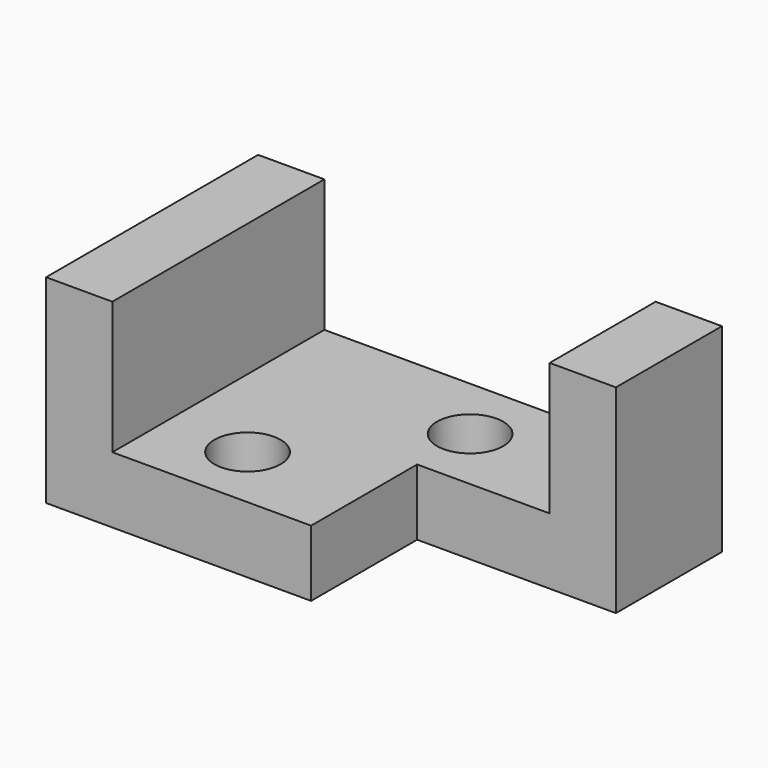
from build123d import *

# Parameters (mm, degrees)
F0_W     = 88.9
F0_H     = 38.1
F1_DEPTH = 50.8
F2_W     = 63.5
F2_H     = 25.4
F3_DEPTH = 50.801
F4_W     = 38.1
F4_H     = 25.4
F5_DEPTH = 38.101
F6_R     = 6.35
F7_DEPTH = 12.701
F8_R     = 6.35
F9_DEPTH = 12.701


with BuildPart() as f1:
    # F0 (on Front) → F1 (new body)
    with BuildSketch(Plane.XZ):
        Rectangle(F0_W, F0_H)
    extrude(amount=F1_DEPTH)

    # F2 (on face) → F3 (cut, through all)
    with BuildSketch(Plane.XZ.offset(50.8)):
        with Locations((0, 6.35)):
            Rectangle(F2_W, F2_H)
    extrude(amount=-F3_DEPTH, mode=Mode.SUBTRACT)

    # F4 (on face) → F5 (cut, through all)
    with BuildSketch(Plane.XY.offset(19.05)):
        with Locations((25.4, -38.1)):
            Rectangle(F4_W, F4_H)
    extrude(amount=-F5_DEPTH, mode=Mode.SUBTRACT)

    # F6 (on face) → F7 (cut, through all)
    with BuildSketch(Plane.XY.offset(-6.35)):
        with Locations((-15.991973, -38.1)):
            Circle(F6_R)
    extrude(amount=-F7_DEPTH, mode=Mode.SUBTRACT)

    # F8 (on face) → F9 (cut, through all)
    with BuildSketch(Plane.XY.offset(-6.35)):
        with Locations((6.35, -12.7)):
            Circle(F8_R)
    extrude(amount=-F9_DEPTH, mode=Mode.SUBTRACT)


solid = f1.part
